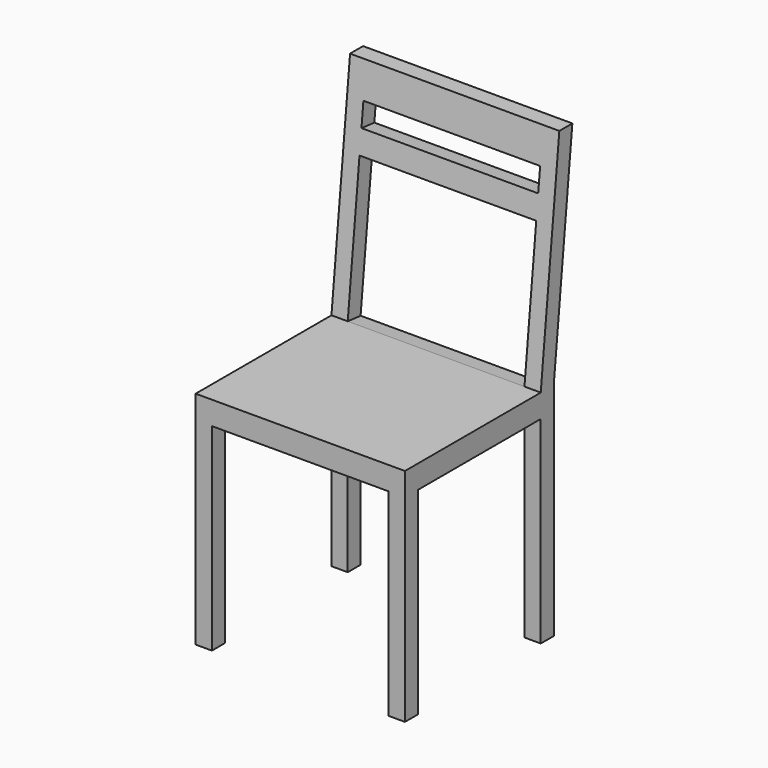
from build123d import *

# Parameters (mm, degrees)
F0_W     = 450
F0_H     = 450
F1_DEPTH = 950
F2_W     = 50
F2_H     = 50
F2_H_2   = 425
F2_W_2   = 330
F3_DEPTH = 450.001
F4_W     = 380
F4_H     = 425
F5_DEPTH = 450.001
F6_W     = 380
F6_H     = 50
F6_H_2   = 302.6243293636
F7_DEPTH = 25
F8_DEPTH = 109.2592361444


with BuildPart() as f1:
    # F0 (on Top) → F1 (new body)
    with BuildSketch(Plane.XY):
        Rectangle(F0_W, F0_H)
    extrude(amount=F1_DEPTH)

    # F2 (on face) → F3 (cut, through all)
    with BuildSketch(Plane.YZ.offset(225)):
        with Locations((200, 450)):
            Rectangle(F2_W, F2_H)
        Polygon((175, 475), (225, 475), (225, 950), align=None)
        with Locations((200, 212.5)):
            Rectangle(F2_W, F2_H_2)
        with Locations((-25, 212.5)):
            Rectangle(F2_W_2, F2_H_2)
        Polygon((-225, 475), (140, 475), (190, 950), (-225, 950), align=None)
    extrude(amount=-F3_DEPTH, mode=Mode.SUBTRACT)

    # F4 (on face) → F5 (cut, through all)
    with BuildSketch(Plane.XZ.offset(225)):
        with Locations((0, 212.5)):
            Rectangle(F4_W, F4_H)
    extrude(amount=-F5_DEPTH, mode=Mode.SUBTRACT)

    # F6 (on face) → F7 (cut)
    with BuildSketch(Plane(origin=(0, 89.0136986301, -9.3698630137), x_dir=(1, 0, 0), z_dir=(0, -0.9945054529, 0.1046847845))):
        with Locations((0, 864.6702893338)):
            Rectangle(F6_W, F6_H)
        with Locations((0, 638.358124652)):
            Rectangle(F6_W, F6_H_2)
    extrude(amount=-F7_DEPTH, mode=Mode.SUBTRACT)

    # F8 (cut, through all): faces of the model
    f8_faces = [f1.faces().sort_by_distance(p)[0] for p in [
        (0, 204.3941578712, 847.9323350949),
        (0, 180.7027176777, 622.8636532564),
    ]]
    extrude(f8_faces, amount=-F8_DEPTH, mode=Mode.SUBTRACT)


solid = f1.part
